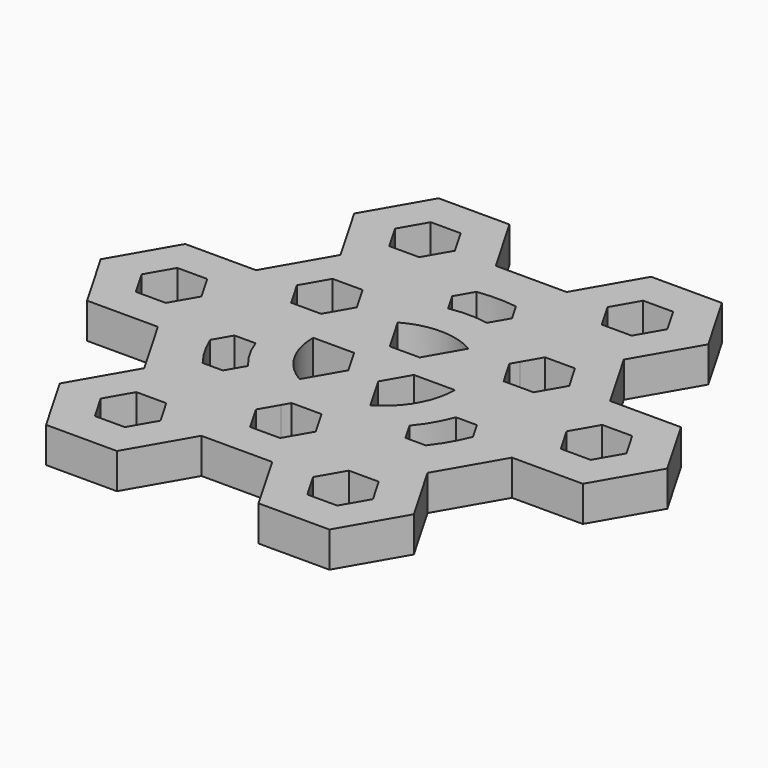
from build123d import *

# Parameters (mm, degrees)
F1_DEPTH = 5


with BuildPart() as f1:
    # F0 (on Top) → F1 (new body)
    with BuildSketch(Plane.XY):
        with BuildLine():
            Line((-11.351928, -16.06705), (-6.351928, -7.406796))
            ThreePointArc((-6.351928, -7.406796), (-9.836197, -8.995155), (-13.559318, -9.890362))
            Line((-13.559318, -9.890362), (-14.238679, -11.06705))
            Line((-14.238679, -11.06705), (-18.465176, -11.06705))
            Line((-18.465176, -11.06705), (-19.144538, -9.890362))
            ThreePointArc((-19.144538, -9.890362), (-22.867658, -8.995155), (-26.351928, -7.406796))
            Line((-26.351928, -7.406796), (-21.351928, -16.06705))
            Line((-21.351928, -16.06705), (-11.351928, -16.06705))
        make_face()
        Polygon((-21.351928, 18.573966), (-26.351928, 9.913712), (-20.578425, 9.913712), (-18.465176, 13.573966), align=None)
        with BuildLine():
            Line((-41.351928, 18.573966), (-36.351928, 9.913712))
            ThreePointArc((-36.351928, 9.913712), (-35.985352, 13.725357), (-34.899064, 17.397277))
            Line((-34.899064, 17.397277), (-35.578425, 18.573966))
            Line((-35.578425, 18.573966), (-33.465176, 22.23422))
            Line((-33.465176, 22.23422), (-32.106454, 22.23422))
            ThreePointArc((-32.106454, 22.23422), (-29.469622, 25.010934), (-26.351928, 27.23422))
            Line((-26.351928, 27.23422), (-36.351928, 27.23422))
            Line((-36.351928, 27.23422), (-41.351928, 18.573966))
        make_face()
        Polygon((-36.351928, 27.23422), (-26.351928, 27.23422), (-21.351928, 35.894474), (-26.351928, 44.554728), (-36.351928, 44.554728), (-41.351928, 35.894474), align=None)
        Polygon((-33.465176, 39.554728), (-29.238679, 39.554728), (-27.12543, 35.894474), (-29.238679, 32.23422), (-33.465176, 32.23422), (-35.578425, 35.894474), align=None, mode=Mode.SUBTRACT)
        Polygon((-41.351928, 1.253458), (-36.351928, 9.913712), (-41.351928, 18.573966), (-51.351928, 18.573966), (-56.351928, 9.913712), (-51.351928, 1.253458), align=None)
        Polygon((-50.578425, 9.913712), (-48.465176, 13.573966), (-44.238679, 13.573966), (-42.12543, 9.913712), (-44.238679, 6.253458), (-48.465176, 6.253458), align=None, mode=Mode.SUBTRACT)
        with BuildLine():
            ThreePointArc((-11.351928, 18.573966), (-7.691674, 14.913712), (-6.351928, 9.913712))
            Line((-6.351928, 9.913712), (-1.351928, 9.913712))
            ThreePointArc((-1.351928, 9.913712), (-1.567949, 12.450242), (-2.209792, 14.913712))
            Line((-2.209792, 14.913712), (-3.465176, 14.913712))
            Line((-3.465176, 14.913712), (-5.578425, 18.573966))
            Line((-5.578425, 18.573966), (-4.950733, 19.661161))
            ThreePointArc((-4.950733, 19.661161), (-6.763239, 21.448748), (-8.851928, 22.904093))
            Line((-8.851928, 22.904093), (-11.351928, 18.573966))
        make_face()
        Polygon((-11.351928, 35.894474), (-6.351928, 27.23422), (3.648072, 27.23422), (8.648072, 35.894474), (3.648072, 44.554728), (-6.351928, 44.554728), align=None)
        Polygon((-5.578425, 35.894474), (-3.465176, 39.554728), (0.761321, 39.554728), (2.87457, 35.894474), (0.761321, 32.23422), (-3.465176, 32.23422), align=None, mode=Mode.SUBTRACT)
        Polygon((8.648072, 18.573966), (3.648072, 9.913712), (8.648072, 1.253458), (18.648072, 1.253458), (23.648072, 9.913712), (18.648072, 18.573966), align=None)
        Polygon((15.761321, 13.573966), (17.87457, 9.913712), (15.761321, 6.253458), (11.534824, 6.253458), (9.421575, 9.913712), (11.534824, 13.573966), align=None, mode=Mode.SUBTRACT)
        Polygon((-12.12543, 9.913712), (-6.351928, 9.913712), (-11.351928, 18.573966), (-14.238679, 13.573966), align=None)
        Polygon((3.648072, -7.406796), (-6.351928, -7.406796), (-11.351928, -16.06705), (-6.351928, -24.727304), (3.648072, -24.727304), (8.648072, -16.06705), align=None)
        Polygon((0.761321, -12.406796), (2.874569, -16.06705), (0.761321, -19.727304), (-3.465176, -19.727304), (-5.578425, -16.06705), (-3.465176, -12.406796), align=None, mode=Mode.SUBTRACT)
        with BuildLine():
            Line((-31.351928, 9.913712), (-26.351928, 9.913712))
            ThreePointArc((-26.351928, 9.913712), (-25.012182, 14.913712), (-21.351928, 18.573966))
            Line((-21.351928, 18.573966), (-23.851928, 22.904093))
            ThreePointArc((-23.851928, 22.904093), (-25.940616, 21.448748), (-27.753123, 19.661161))
            Line((-27.753123, 19.661161), (-27.12543, 18.573966))
            Line((-27.12543, 18.573966), (-29.238679, 14.913712))
            Line((-29.238679, 14.913712), (-30.494063, 14.913712))
            ThreePointArc((-30.494063, 14.913712), (-31.135906, 12.450242), (-31.351928, 9.913712))
        make_face()
        Polygon((-21.351928, -16.06705), (-26.351928, -7.406796), (-36.351928, -7.406796), (-41.351928, -16.06705), (-36.351928, -24.727304), (-26.351928, -24.727304), align=None)
        Polygon((-33.465176, -19.727304), (-35.578425, -16.06705), (-33.465176, -12.406796), (-29.238679, -12.406796), (-27.12543, -16.06705), (-29.238679, -19.727304), align=None, mode=Mode.SUBTRACT)
        with BuildLine():
            Line((-36.351928, -7.406796), (-26.351928, -7.406796))
            ThreePointArc((-26.351928, -7.406796), (-29.469622, -5.18351), (-32.106454, -2.406796))
            Line((-32.106454, -2.406796), (-33.465176, -2.406796))
            Line((-33.465176, -2.406796), (-35.578425, 1.253458))
            Line((-35.578425, 1.253458), (-34.899064, 2.430146))
            ThreePointArc((-34.899064, 2.430146), (-35.985352, 6.102066), (-36.351928, 9.913712))
            Line((-36.351928, 9.913712), (-41.351928, 1.253458))
            Line((-41.351928, 1.253458), (-36.351928, -7.406796))
        make_face()
        with BuildLine():
            ThreePointArc((2.195208, 17.397277), (3.281497, 13.725357), (3.648072, 9.913712))
            Line((3.648072, 9.913712), (8.648072, 18.573966))
            Line((8.648072, 18.573966), (3.648072, 27.23422))
            Line((3.648072, 27.23422), (-6.351928, 27.23422))
            ThreePointArc((-6.351928, 27.23422), (-3.234234, 25.010934), (-0.597402, 22.23422))
            Line((-0.597402, 22.23422), (0.761321, 22.23422))
            Line((0.761321, 22.23422), (2.87457, 18.573966))
            Line((2.87457, 18.573966), (2.195208, 17.397277))
        make_face()
        with BuildLine():
            ThreePointArc((-13.559318, 29.717785), (-9.836197, 28.822579), (-6.351928, 27.23422))
            Line((-6.351928, 27.23422), (-11.351928, 35.894474))
            Line((-11.351928, 35.894474), (-21.351928, 35.894474))
            Line((-21.351928, 35.894474), (-26.351928, 27.23422))
            ThreePointArc((-26.351928, 27.23422), (-22.867658, 28.822579), (-19.144538, 29.717785))
            Line((-19.144538, 29.717785), (-18.465176, 30.894474))
            Line((-18.465176, 30.894474), (-14.238679, 30.894474))
            Line((-14.238679, 30.894474), (-13.559318, 29.717785))
        make_face()
        with BuildLine():
            ThreePointArc((-0.597402, -2.406796), (-3.234234, -5.18351), (-6.351928, -7.406796))
            Line((-6.351928, -7.406796), (3.648072, -7.406796))
            Line((3.648072, -7.406796), (8.648072, 1.253458))
            Line((8.648072, 1.253458), (3.648072, 9.913712))
            ThreePointArc((3.648072, 9.913712), (3.281497, 6.102066), (2.195208, 2.430146))
            Line((2.195208, 2.430146), (2.87457, 1.253458))
            Line((2.87457, 1.253458), (0.761321, -2.406796))
            Line((0.761321, -2.406796), (-0.597402, -2.406796))
        make_face()
        with BuildLine():
            Line((-26.351928, 27.23422), (-23.851928, 22.904093))
            ThreePointArc((-23.851928, 22.904093), (-21.547218, 23.985278), (-19.092869, 24.661161))
            Line((-19.092869, 24.661161), (-20.578425, 27.23422))
            Line((-20.578425, 27.23422), (-19.144538, 29.717785))
            ThreePointArc((-19.144538, 29.717785), (-22.867658, 28.822579), (-26.351928, 27.23422))
        make_face()
        with BuildLine():
            ThreePointArc((-30.494063, 4.913712), (-31.135906, 7.377182), (-31.351928, 9.913712))
            Line((-31.351928, 9.913712), (-36.351928, 9.913712))
            ThreePointArc((-36.351928, 9.913712), (-35.985352, 6.102066), (-34.899064, 2.430146))
            Line((-34.899064, 2.430146), (-33.465176, 4.913712))
            Line((-33.465176, 4.913712), (-30.494063, 4.913712))
        make_face()
        with BuildLine():
            ThreePointArc((-6.351928, 9.913712), (-7.691674, 4.913712), (-11.351928, 1.253458))
            Line((-11.351928, 1.253458), (-8.851928, -3.076669))
            ThreePointArc((-8.851928, -3.076669), (-6.763239, -1.621324), (-4.950733, 0.166263))
            Line((-4.950733, 0.166263), (-5.578425, 1.253458))
            Line((-5.578425, 1.253458), (-3.465176, 4.913712))
            Line((-3.465176, 4.913712), (-2.209792, 4.913712))
            ThreePointArc((-2.209792, 4.913712), (-1.567949, 7.377182), (-1.351928, 9.913712))
            Line((-1.351928, 9.913712), (-6.351928, 9.913712))
        make_face()
        with BuildLine():
            Line((-36.351928, 9.913712), (-31.351928, 9.913712))
            ThreePointArc((-31.351928, 9.913712), (-31.135906, 12.450242), (-30.494063, 14.913712))
            Line((-30.494063, 14.913712), (-33.465176, 14.913712))
            Line((-33.465176, 14.913712), (-34.899064, 17.397277))
            ThreePointArc((-34.899064, 17.397277), (-35.985352, 13.725357), (-36.351928, 9.913712))
        make_face()
        with BuildLine():
            Line((-8.851928, -3.076669), (-11.351928, 1.253458))
            ThreePointArc((-11.351928, 1.253458), (-16.351928, -0.086288), (-21.351928, 1.253458))
            Line((-21.351928, 1.253458), (-23.851928, -3.076669))
            ThreePointArc((-23.851928, -3.076669), (-21.547218, -4.157854), (-19.092869, -4.833737))
            Line((-19.092869, -4.833737), (-18.465176, -3.746542))
            Line((-18.465176, -3.746542), (-14.238679, -3.746542))
            Line((-14.238679, -3.746542), (-13.610987, -4.833737))
            ThreePointArc((-13.610987, -4.833737), (-11.156638, -4.157854), (-8.851928, -3.076669))
        make_face()
        with BuildLine():
            ThreePointArc((-13.610987, 24.661161), (-11.156638, 23.985278), (-8.851928, 22.904093))
            Line((-8.851928, 22.904093), (-6.351928, 27.23422))
            ThreePointArc((-6.351928, 27.23422), (-9.836197, 28.822579), (-13.559318, 29.717785))
            Line((-13.559318, 29.717785), (-12.12543, 27.23422))
            Line((-12.12543, 27.23422), (-13.610987, 24.661161))
        make_face()
        with BuildLine():
            Line((-23.851928, -3.076669), (-21.351928, 1.253458))
            ThreePointArc((-21.351928, 1.253458), (-25.012182, 4.913712), (-26.351928, 9.913712))
            Line((-26.351928, 9.913712), (-31.351928, 9.913712))
            ThreePointArc((-31.351928, 9.913712), (-31.135906, 7.377182), (-30.494063, 4.913712))
            Line((-30.494063, 4.913712), (-29.238679, 4.913712))
            Line((-29.238679, 4.913712), (-27.12543, 1.253458))
            Line((-27.12543, 1.253458), (-27.753123, 0.166263))
            ThreePointArc((-27.753123, 0.166263), (-25.940616, -1.621324), (-23.851928, -3.076669))
        make_face()
        with BuildLine():
            ThreePointArc((-21.351928, 18.573966), (-16.351928, 19.913712), (-11.351928, 18.573966))
            Line((-11.351928, 18.573966), (-8.851928, 22.904093))
            ThreePointArc((-8.851928, 22.904093), (-11.156638, 23.985278), (-13.610987, 24.661161))
            Line((-13.610987, 24.661161), (-14.238679, 23.573966))
            Line((-14.238679, 23.573966), (-18.465176, 23.573966))
            Line((-18.465176, 23.573966), (-19.092869, 24.661161))
            ThreePointArc((-19.092869, 24.661161), (-21.547218, 23.985278), (-23.851928, 22.904093))
            Line((-23.851928, 22.904093), (-21.351928, 18.573966))
        make_face()
        with BuildLine():
            Line((3.648072, 9.913712), (-1.351928, 9.913712))
            ThreePointArc((-1.351928, 9.913712), (-1.567949, 7.377182), (-2.209792, 4.913712))
            Line((-2.209792, 4.913712), (0.761321, 4.913712))
            Line((0.761321, 4.913712), (2.195208, 2.430146))
            ThreePointArc((2.195208, 2.430146), (3.281497, 6.102066), (3.648072, 9.913712))
        make_face()
        with BuildLine():
            ThreePointArc((-19.092869, -4.833737), (-21.547218, -4.157854), (-23.851928, -3.076669))
            Line((-23.851928, -3.076669), (-26.351928, -7.406796))
            ThreePointArc((-26.351928, -7.406796), (-22.867658, -8.995155), (-19.144538, -9.890362))
            Line((-19.144538, -9.890362), (-20.578425, -7.406796))
            Line((-20.578425, -7.406796), (-19.092869, -4.833737))
        make_face()
        with BuildLine():
            Line((-6.351928, -7.406796), (-8.851928, -3.076669))
            ThreePointArc((-8.851928, -3.076669), (-11.156638, -4.157854), (-13.610987, -4.833737))
            Line((-13.610987, -4.833737), (-12.12543, -7.406796))
            Line((-12.12543, -7.406796), (-13.559318, -9.890362))
            ThreePointArc((-13.559318, -9.890362), (-9.836197, -8.995155), (-6.351928, -7.406796))
        make_face()
        with BuildLine():
            ThreePointArc((-2.209792, 14.913712), (-1.567949, 12.450242), (-1.351928, 9.913712))
            Line((-1.351928, 9.913712), (3.648072, 9.913712))
            ThreePointArc((3.648072, 9.913712), (3.281497, 13.725357), (2.195208, 17.397277))
            Line((2.195208, 17.397277), (0.761321, 14.913712))
            Line((0.761321, 14.913712), (-2.209792, 14.913712))
        make_face()
        with BuildLine():
            Line((-26.351928, -7.406796), (-23.851928, -3.076669))
            ThreePointArc((-23.851928, -3.076669), (-25.940616, -1.621324), (-27.753123, 0.166263))
            Line((-27.753123, 0.166263), (-29.238679, -2.406796))
            Line((-29.238679, -2.406796), (-32.106454, -2.406796))
            ThreePointArc((-32.106454, -2.406796), (-29.469622, -5.18351), (-26.351928, -7.406796))
        make_face()
        with BuildLine():
            Line((-6.351928, 27.23422), (-8.851928, 22.904093))
            ThreePointArc((-8.851928, 22.904093), (-6.763239, 21.448748), (-4.950733, 19.661161))
            Line((-4.950733, 19.661161), (-3.465176, 22.23422))
            Line((-3.465176, 22.23422), (-0.597402, 22.23422))
            ThreePointArc((-0.597402, 22.23422), (-3.234234, 25.010934), (-6.351928, 27.23422))
        make_face()
        with BuildLine():
            ThreePointArc((-27.753123, 19.661161), (-25.940616, 21.448748), (-23.851928, 22.904093))
            Line((-23.851928, 22.904093), (-26.351928, 27.23422))
            ThreePointArc((-26.351928, 27.23422), (-29.469622, 25.010934), (-32.106454, 22.23422))
            Line((-32.106454, 22.23422), (-29.238679, 22.23422))
            Line((-29.238679, 22.23422), (-27.753123, 19.661161))
        make_face()
        Polygon((-21.351928, 1.253458), (-11.351928, 1.253458), (-14.238679, 6.253458), (-18.465176, 6.253458), align=None)
        with BuildLine():
            ThreePointArc((-4.950733, 0.166263), (-6.763239, -1.621324), (-8.851928, -3.076669))
            Line((-8.851928, -3.076669), (-6.351928, -7.406796))
            ThreePointArc((-6.351928, -7.406796), (-3.234234, -5.18351), (-0.597402, -2.406796))
            Line((-0.597402, -2.406796), (-3.465176, -2.406796))
            Line((-3.465176, -2.406796), (-4.950733, 0.166263))
        make_face()
        Polygon((-16.351928, 9.913712), (-12.12543, 9.913712), (-14.238679, 13.573966), align=None)
        Polygon((-18.465176, 13.573966), (-16.351928, 9.913712), (-14.238679, 13.573966), align=None)
        Polygon((-20.578425, 9.913712), (-16.351928, 9.913712), (-18.465176, 13.573966), align=None)
        Polygon((-16.351928, 9.913712), (-14.238679, 6.253458), (-12.12543, 9.913712), align=None)
        Polygon((-20.578425, 9.913712), (-18.465176, 6.253458), (-16.351928, 9.913712), align=None)
        Polygon((-18.465176, 6.253458), (-14.238679, 6.253458), (-16.351928, 9.913712), align=None)
        with BuildLine():
            ThreePointArc((-21.351928, 18.573966), (-25.012182, 14.913712), (-26.351928, 9.913712))
            Line((-26.351928, 9.913712), (-21.351928, 18.573966))
        make_face()
        with BuildLine():
            ThreePointArc((-21.351928, 1.253458), (-16.351928, -0.086288), (-11.351928, 1.253458))
            Line((-11.351928, 1.253458), (-21.351928, 1.253458))
        make_face()
        with BuildLine():
            Line((-11.351928, 18.573966), (-6.351928, 9.913712))
            ThreePointArc((-6.351928, 9.913712), (-7.691674, 14.913712), (-11.351928, 18.573966))
        make_face()
        with BuildLine():
            Line((-5.578425, 1.253458), (-4.950733, 0.166263))
            ThreePointArc((-4.950733, 0.166263), (-3.361547, 2.413712), (-2.209792, 4.913712))
            Line((-2.209792, 4.913712), (-3.465176, 4.913712))
            Line((-3.465176, 4.913712), (-5.578425, 1.253458))
        make_face()
        with BuildLine():
            ThreePointArc((2.195208, 2.430146), (0.96858, -0.086288), (-0.597402, -2.406796))
            Line((-0.597402, -2.406796), (0.761321, -2.406796))
            Line((0.761321, -2.406796), (2.87457, 1.253458))
            Line((2.87457, 1.253458), (2.195208, 2.430146))
        make_face()
        with BuildLine():
            ThreePointArc((-19.144538, 29.717785), (-16.351928, 29.913712), (-13.559318, 29.717785))
            Line((-13.559318, 29.717785), (-14.238679, 30.894474))
            Line((-14.238679, 30.894474), (-18.465176, 30.894474))
            Line((-18.465176, 30.894474), (-19.144538, 29.717785))
        make_face()
        with BuildLine():
            Line((-14.238679, 23.573966), (-13.610987, 24.661161))
            ThreePointArc((-13.610987, 24.661161), (-16.351928, 24.913712), (-19.092869, 24.661161))
            Line((-19.092869, 24.661161), (-18.465176, 23.573966))
            Line((-18.465176, 23.573966), (-14.238679, 23.573966))
        make_face()
        with BuildLine():
            Line((-33.465176, -2.406796), (-32.106454, -2.406796))
            ThreePointArc((-32.106454, -2.406796), (-33.672436, -0.086288), (-34.899064, 2.430146))
            Line((-34.899064, 2.430146), (-35.578425, 1.253458))
            Line((-35.578425, 1.253458), (-33.465176, -2.406796))
        make_face()
        with BuildLine():
            ThreePointArc((-30.494063, 4.913712), (-29.342309, 2.413712), (-27.753123, 0.166263))
            Line((-27.753123, 0.166263), (-27.12543, 1.253458))
            Line((-27.12543, 1.253458), (-29.238679, 4.913712))
            Line((-29.238679, 4.913712), (-30.494063, 4.913712))
        make_face()
    extrude(amount=F1_DEPTH)


solid = f1.part
